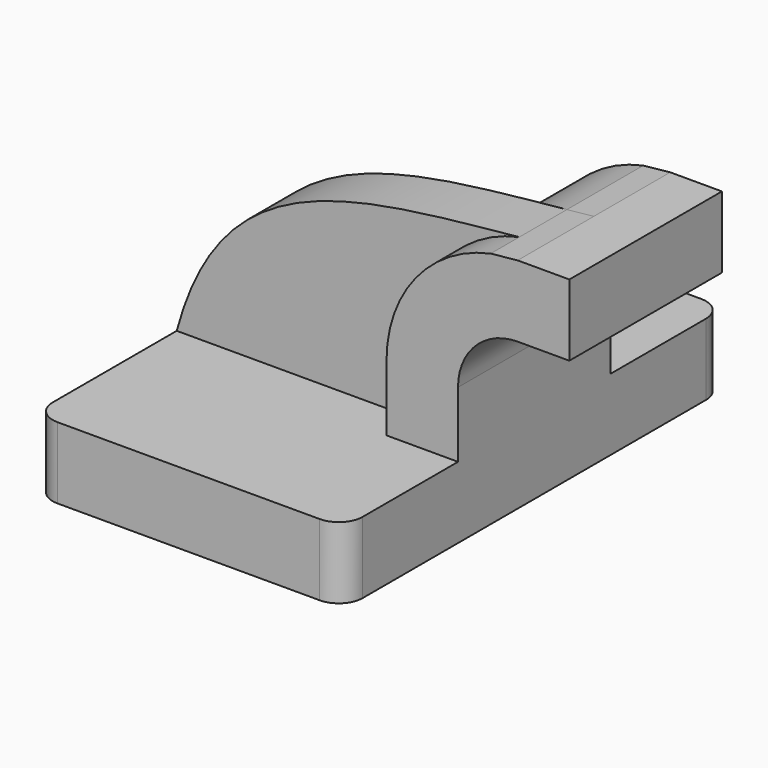
from build123d import *

# Parameters (mm, degrees)
F1_DEPTH = 63.5
F0_W     = 10.6006153176
F0_H     = 19.05
F2_DEPTH = 25.4
F3_DEPTH = 15.875
F4_R     = 6.35


with BuildPart() as f1:
    # F0 (on Front) → F1 (new body, symmetric)
    with BuildSketch(Plane.XZ):
        Polygon((22.225, 9.525), (-41.275, 9.525), (-41.275, -9.525), (41.275, -9.525), (41.275, 9.525), align=None)
    extrude(amount=F1_DEPTH, both=True)

    # F0 (on Front) → F2 (join, symmetric)
    with BuildSketch(Plane.XZ):
        with BuildLine():
            Line((22.225, 27.0002), (22.225, 9.525))
            Line((22.225, 9.525), (41.275, 9.525))
            Line((41.275, 9.525), (41.275, 27.0002))
            ThreePointArc((41.275, 27.0002), (45.9246798487, 38.2255201513), (57.15, 42.8752))
            Line((57.15, 42.8752), (60.325, 42.8752))
            Line((60.325, 42.8752), (60.325, 61.9252))
            Line((60.325, 61.9252), (57.15, 61.9252))
            add(Edge.make_bspline(
                [(49.9755002141, 61.180343034), (52.3379879204, 61.4198350187), (54.7300422112, 61.6659292139), (57.15, 61.9252)],
                knots=[105.9316998893, 105.9316998893, 105.9316998893, 105.9316998893, 111.5045361635, 111.5045361635, 111.5045361635, 111.5045361635], degree=3))
            ThreePointArc((49.9755002141, 61.180343034), (30.036119514, 49.0136756454), (22.225, 27.0002))
        make_face()
        with Locations((65.6253076588, 52.4002)):
            Rectangle(F0_W, F0_H)
    extrude(amount=F2_DEPTH, both=True)

    # F0 (on Front) → F3 (join)
    with BuildSketch(Plane.XZ):
        with BuildLine():
            add(Edge.make_bspline(
                [(-41.275, 9.525), (-29.1563910851, 54.461089134), (5.067965455, 56.6279406654), (49.9755002141, 61.180343034)],
                knots=[0, 0, 0, 0, 105.9316998893, 105.9316998893, 105.9316998893, 105.9316998893], degree=3))
            Line((-41.275, 9.525), (22.225, 9.525))
            Line((22.225, 9.525), (22.225, 27.0002))
            ThreePointArc((22.225, 27.0002), (30.036119514, 49.0136756454), (49.9755002141, 61.180343034))
        make_face()
    extrude(amount=F3_DEPTH)

    # F4
    f4_edges = [f1.edges().sort_by_distance(p)[0] for p in [
        (-41.275, -63.5, 0),
        (41.275, -63.5, 0),
        (-41.275, 63.5, 0),
        (41.275, 63.5, 0),
    ]]
    fillet(f4_edges, radius=F4_R)


solid = f1.part
